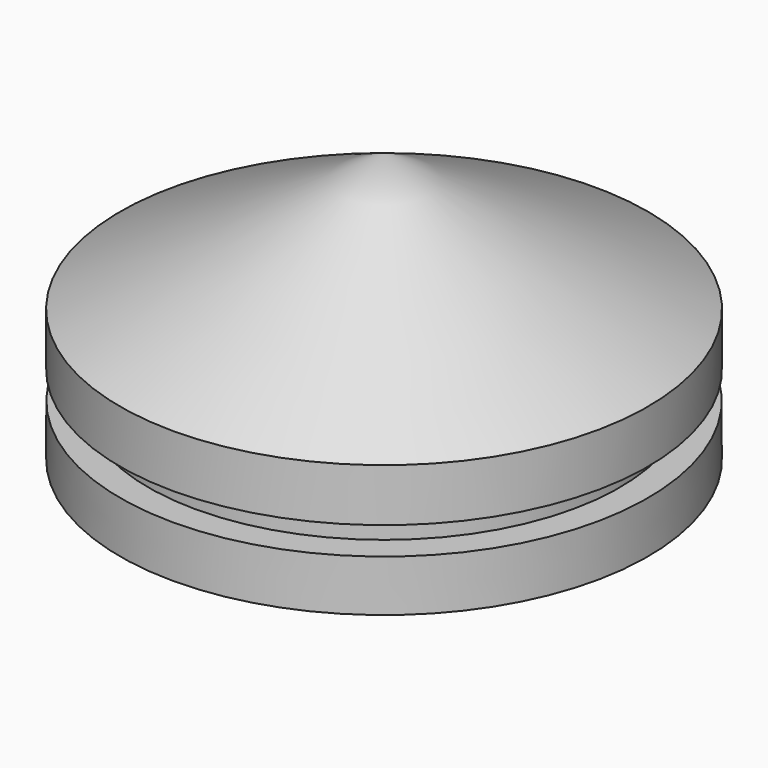
from build123d import *

# Parameters (mm, degrees)
F2_R     = 8.73125
F3_DEPTH = 6.35


with BuildPart() as f1:
    # F0 (on Right) → F1 (revolve)
    with BuildSketch(Plane.YZ):
        Polygon((-14.680734, 9.332753), (-27.380734, 2.729445), (-27.380734, 0.187998), (-26.010094, 0.187998), (-26.010094, -1.148191), (-27.371027, -1.148191), (-27.380734, -3.620555), (-14.680734, -3.620555), align=None)
    revolve(axis=Axis((0, -14.680734, 2.856099), (0, 0, -1)))

    # F2 (on face) → F3 (cut)
    with BuildSketch(Plane(origin=(0, 0, -3.620555), x_dir=(1, 0, 0), z_dir=(0, 0, -1))):
        with Locations((0, 14.680734)):
            Circle(F2_R)
    extrude(amount=-F3_DEPTH, mode=Mode.SUBTRACT)


solid = f1.part
